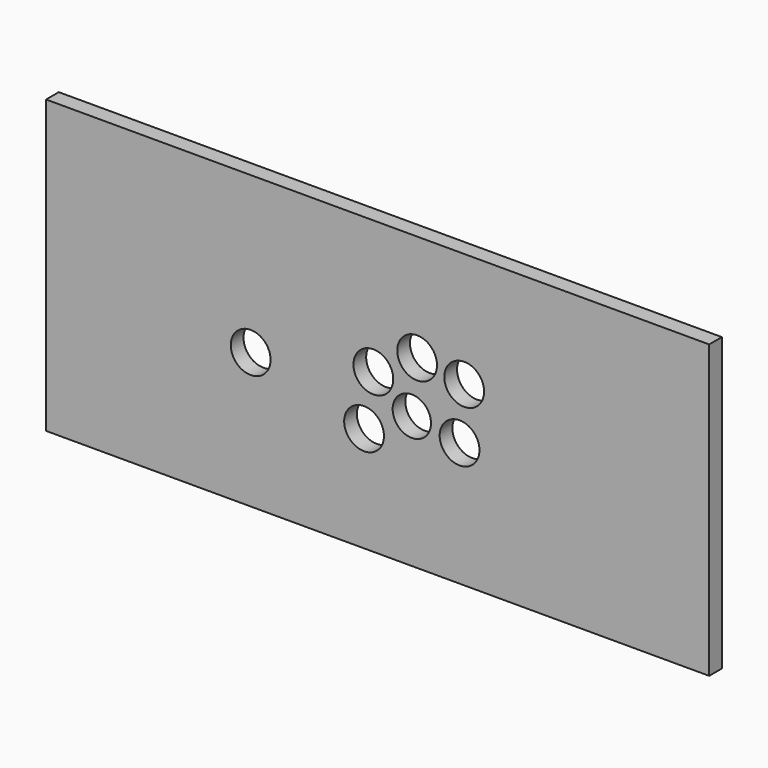
from build123d import *

# Parameters (mm, degrees)
F0_W     = 500
F0_H     = 220
F0_R     = 15
F0_R_2   = 14.456537
F1_DEPTH = 12


with BuildPart() as f1:
    # F0 (on Front) → F1 (new body)
    with BuildSketch(Plane.XZ):
        with Locations((5.457865, -9.454479)):
            Rectangle(F0_W, F0_H)
        with Locations((-4.772537, -40)):
            Circle(F0_R, mode=Mode.SUBTRACT)
        with Locations((-90.26964, -17.208472)):
            Circle(F0_R, mode=Mode.SUBTRACT)
        with Locations((67.227463, -26)):
            Circle(F0_R, mode=Mode.SUBTRACT)
        with Locations((31.227463, -20)):
            Circle(F0_R_2, mode=Mode.SUBTRACT)
        with Locations((2.227463, 0)):
            Circle(F0_R, mode=Mode.SUBTRACT)
        with Locations((70.727463, 14)):
            Circle(F0_R, mode=Mode.SUBTRACT)
        with Locations((35.227463, 20)):
            Circle(F0_R, mode=Mode.SUBTRACT)
    extrude(amount=F1_DEPTH)


solid = f1.part
